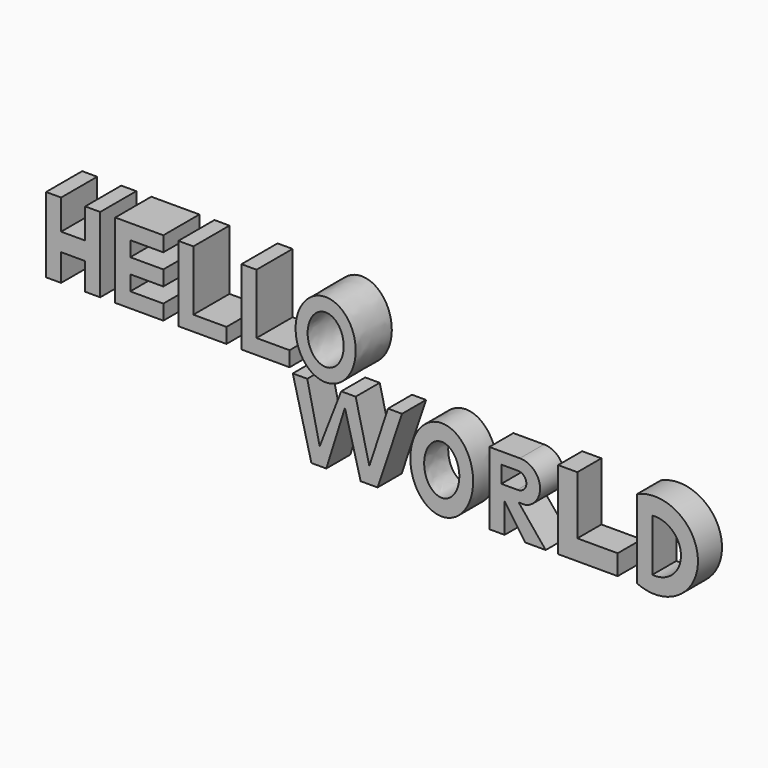
from build123d import *

# Parameters (mm, degrees)
F1_DEPTH = 38.1
F3_DEPTH = 25.4


with BuildPart() as f1:
    # F0 (on Front) → F1 (new body)
    with BuildSketch(Plane.XZ):
        Polygon((0, 33.02), (0, 0), (0, -30.48), (12.7, -30.48), (12.7, -7.62), (33.02, -7.62), (33.02, -30.48), (45.72, -30.48), (45.72, 33.02), (33.02, 33.02), (33.02, 7.62), (12.7, 7.62), (12.7, 33.02), align=None)
        Polygon((99.06, 33.02), (58.42, 33.02), (58.42, -30.48), (99.06, -30.48), (99.06, -17.78), (71.12, -17.78), (71.12, -5.08), (99.06, -5.08), (99.06, 7.62), (71.12, 7.62), (71.12, 20.32), (99.06, 20.32), align=None)
        Polygon((124.46, 33.02), (111.76, 33.02), (111.76, -30.48), (152.4, -30.48), (152.4, -17.78), (124.46, -17.78), align=None)
        Polygon((177.8, 33.02), (165.1, 33.02), (165.1, -30.48), (205.74, -30.48), (205.74, -17.78), (177.8, -17.78), align=None)
        with BuildLine():
            add(Edge.make_bspline(
                [(236.22, -31.75), (280.214091, -31.75), (258.217045, 15.875), (236.22, 63.5), (214.222955, 15.875), (192.225909, -31.75), (236.22, -31.75)],
                knots=[0, 0, 0, 2.094395, 2.094395, 4.18879, 4.18879, 6.283185, 6.283185, 6.283185], degree=2, weights=[1, 0.5, 1, 0.5, 1, 0.5, 1]))
        make_face()
        with BuildLine():
            add(Edge.make_bspline(
                [(236.22, -20.32), (262.616454, -20.32), (249.418227, 10.16), (236.22, 40.64), (223.021773, 10.16), (209.823546, -20.32), (236.22, -20.32)],
                knots=[0, 0, 0, 2.094395, 2.094395, 4.18879, 4.18879, 6.283185, 6.283185, 6.283185], degree=2, weights=[1, 0.5, 1, 0.5, 1, 0.5, 1]))
        make_face(mode=Mode.SUBTRACT)
    extrude(amount=F1_DEPTH)


with BuildPart() as f3:
    # F2 (on face) → F3 (new body)
    with BuildSketch(Plane(origin=(0, 0, 0), x_dir=(-1, 0, 0), z_dir=(0, 1, 0))):
        Polygon((-221.00015, -89.475729), (-239.180148, -42.627271), (-251.416683, -42.627271), (-262.953997, -90.524577), (-278.686672, -42.627271), (-290.573597, -42.627271), (-269.946307, -104.159579), (-255.612075, -104.159579), (-242.326677, -53.814963), (-226.593986, -104.159579), (-214.00784, -104.159579), (-198.275149, -42.627271), (-210.511684, -42.627271), align=None)
        with BuildLine():
            add(Edge.make_bspline(
                [(-324.136645, -108.12219), (-278.185612, -108.12219), (-301.161128, -56.029051), (-324.136645, -3.935912), (-347.112161, -56.029051), (-370.087677, -108.12219), (-324.136645, -108.12219)],
                knots=[0, 0, 0, 2.094395, 2.094395, 4.18879, 4.18879, 6.283185, 6.283185, 6.283185], degree=2, weights=[1, 0.5, 1, 0.5, 1, 0.5, 1]))
        make_face()
        with BuildLine():
            add(Edge.make_bspline(
                [(-324.136645, -94.235838), (-298.410419, -94.235838), (-311.273532, -62.972227), (-324.136645, -31.708615), (-336.999757, -62.972227), (-349.86287, -94.235838), (-324.136645, -94.235838)],
                knots=[0, 0, 0, 2.094395, 2.094395, 4.18879, 4.18879, 6.283185, 6.283185, 6.283185], degree=2, weights=[1, 0.5, 1, 0.5, 1, 0.5, 1]))
        make_face(mode=Mode.SUBTRACT)
        with BuildLine():
            Line((-364.342421, -104.509197), (-364.342421, -43.326508))
            Line((-364.342421, -43.326508), (-390.213966, -43.326508))
            ThreePointArc((-390.213966, -43.326508), (-407.026428, -57.692656), (-395.458192, -76.539963))
            Line((-395.458192, -76.539963), (-389.190345, -76.539963))
            Line((-389.190345, -76.539963), (-411.969401, -104.509197))
            Line((-411.969401, -104.509197), (-394.75897, -104.509197))
            Line((-394.75897, -104.509197), (-377.278209, -79.336889))
            Line((-377.278209, -79.336889), (-377.278209, -104.509197))
            Line((-377.278209, -104.509197), (-364.342421, -104.509197))
        make_face()
        with BuildLine():
            Line((-388.485349, -53.115737), (-374.481291, -53.115737))
            Line((-374.481291, -53.115737), (-374.481291, -67.449965))
            Line((-374.481291, -67.449965), (-388.11627, -67.449965))
            ThreePointArc((-388.11627, -67.449965), (-395.654838, -60.472203), (-388.485349, -53.115737))
        make_face(mode=Mode.SUBTRACT)
        Polygon((-422.481775, -104.150489), (-422.481775, -37.892681), (-438.696623, -37.892681), (-438.696623, -87.104119), (-472.789347, -87.104119), (-472.789347, -104.150489), align=None)
        with BuildLine():
            Line((-489.012493, -104.150489), (-489.012493, -37.892681))
            ThreePointArc((-489.012493, -37.892681), (-540.610484, -71.021585), (-489.012493, -104.150489))
        make_face()
        with BuildLine():
            ThreePointArc((-502.016574, -93.650766), (-526.271804, -71.576048), (-502.016574, -49.501329))
            Line((-502.016574, -49.501329), (-502.016574, -93.650766))
        make_face(mode=Mode.SUBTRACT)
    extrude(amount=-F3_DEPTH)


solid = Compound([f1.part, f3.part])
